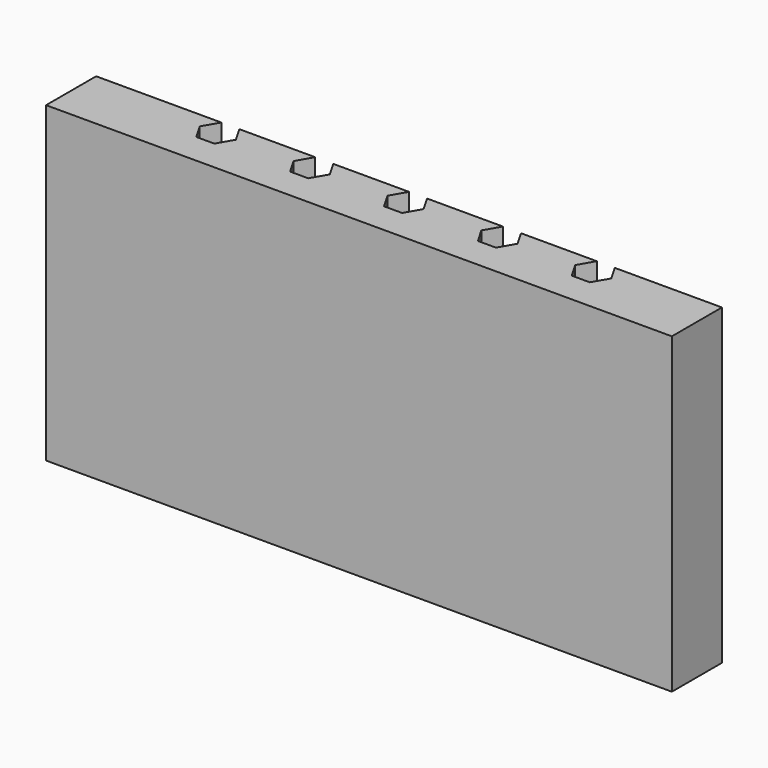
from build123d import *

# Parameters (mm, degrees)
F1_DEPTH = 10


with BuildPart() as f1:
    # F0 (on Top) → F1 (new body)
    with BuildSketch(Plane.XY):
        Polygon((-12.787862, -3), (7.212138, -3), (7.212138, -1), (3.789488, -1), (4.078163, -1.5), (3.789488, -2), (3.212138, -2), (2.923463, -1.5), (3.212138, -1), (0.789488, -1), (1.078163, -1.5), (0.789488, -2), (0.212138, -2), (-0.076537, -1.5), (0.212138, -1), (-2.210512, -1), (-1.921837, -1.5), (-2.210512, -2), (-2.787862, -2), (-3.076537, -1.5), (-2.787862, -1), (-5.210512, -1), (-4.921837, -1.5), (-5.210512, -2), (-5.787862, -2), (-6.076537, -1.5), (-5.787862, -1), (-8.210512, -1), (-7.921837, -1.5), (-8.210512, -2), (-8.787862, -2), (-9.076537, -1.5), (-8.787862, -1), (-12.787862, -1), align=None)
    extrude(amount=F1_DEPTH)


solid = f1.part
